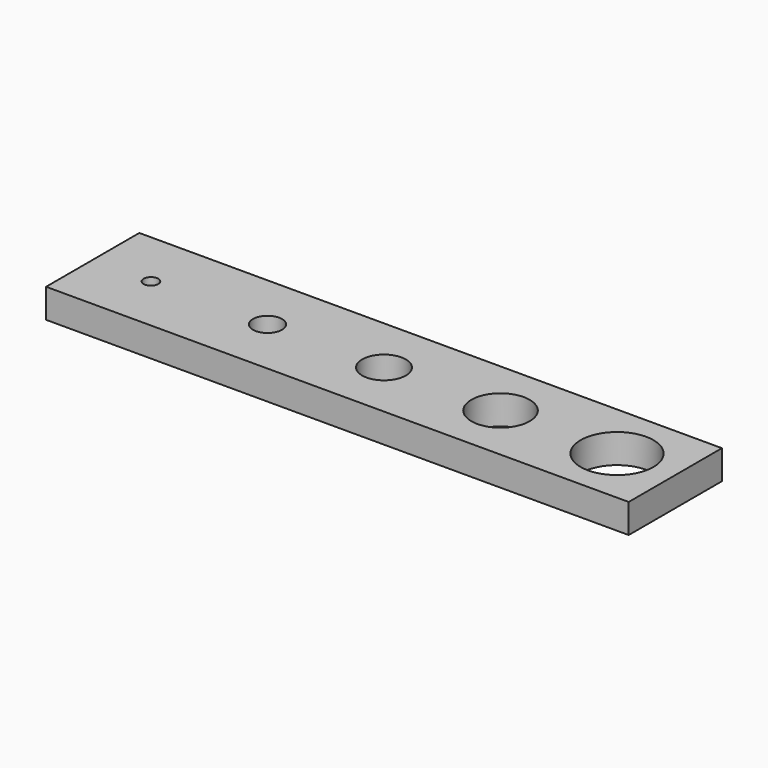
from build123d import *

# Parameters (mm, degrees)
F0_W     = 127
F0_H     = 25.4
F0_R     = 1.5875
F0_R_2   = 3.175
F0_R_3   = 4.7625
F0_R_4   = 6.35
F0_R_5   = 7.9375
F1_DEPTH = 6.35


with BuildPart() as f1:
    # F0 (on Top) → F1 (new body)
    with BuildSketch(Plane.XY):
        with Locations((0.480893, -19.86781)):
            Rectangle(F0_W, F0_H)
        with Locations((-50.319107, -19.86781)):
            Circle(F0_R, mode=Mode.SUBTRACT)
        with Locations((-24.919107, -19.86781)):
            Circle(F0_R_2, mode=Mode.SUBTRACT)
        with Locations((0.480893, -19.86781)):
            Circle(F0_R_3, mode=Mode.SUBTRACT)
        with Locations((25.880893, -19.86781)):
            Circle(F0_R_4, mode=Mode.SUBTRACT)
        with Locations((51.280893, -19.86781)):
            Circle(F0_R_5, mode=Mode.SUBTRACT)
    extrude(amount=F1_DEPTH)


solid = f1.part
